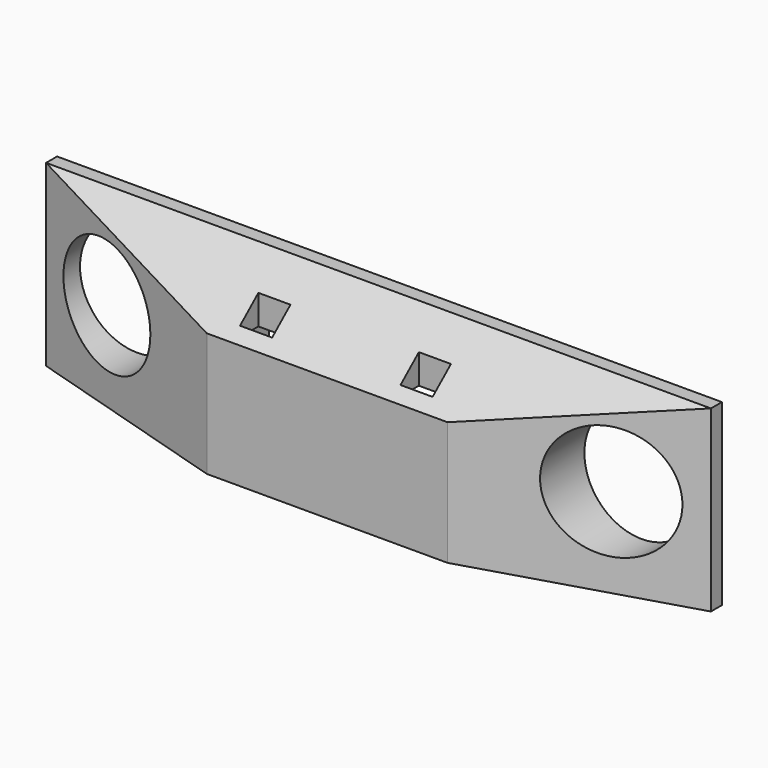
from build123d import *

# Parameters (mm, degrees)
F0_W      = 145
F0_H      = 39
F0_R      = 12.5
F1_DEPTH  = 17
F4_DEPTH  = 300
F6_DEPTH  = 100
F7_W      = 7
F7_H      = 5
F8_DEPTH  = 200
F9_W      = 10.465479
F9_H      = 7.249243
F10_DEPTH = 3
F11_W     = 52.539315
F11_H     = 25.348472
F12_DEPTH = 16


with BuildPart() as f1:
    # F0 (on Front) → F1 (new body)
    with BuildSketch(Plane.XZ):
        Rectangle(F0_W, F0_H)
        with Locations((-55, 0)):
            Circle(F0_R, mode=Mode.SUBTRACT)
        with Locations((55, 0)):
            Circle(F0_R, mode=Mode.SUBTRACT)
    extrude(amount=F1_DEPTH)

    # F3 (on face) → F4 (cut)
    with BuildSketch(Plane(origin=(-72.5, 0, 0), x_dir=(0, -1, 0), z_dir=(-1, 0, 0))):
        Polygon((3, 19.5), (17, 7.5), (17, 19.5), align=None)
    extrude(amount=-F4_DEPTH, mode=Mode.SUBTRACT)

    # F5 (on face) → F6 (cut)
    with BuildSketch(Plane(origin=(0, 0, -19.5), x_dir=(1, 0, 0), z_dir=(0, 0, -1))):
        Polygon((-72.5, 3), (-26.25, 17), (-72.5, 17), align=None)
        Polygon((72.5, 17), (26.25, 17), (72.5, 3), align=None)
    extrude(amount=-F6_DEPTH, mode=Mode.SUBTRACT)

    # F7 (on face) → F8 (cut)
    with BuildSketch(Plane(origin=(0, 0, -19.5), x_dir=(1, 0, 0), z_dir=(0, 0, -1))):
        with Locations((-17.5, 12)):
            Rectangle(F7_W, F7_H)
        with Locations((17.5, 12)):
            Rectangle(F7_W, F7_H)
    extrude(amount=-F8_DEPTH, mode=Mode.SUBTRACT)

    # F9 (on face) → F10 (join)
    with BuildSketch(Plane(origin=(0, 0, -19.5), x_dir=(1, 0, 0), z_dir=(0, 0, -1))):
        with Locations((17.402842, 12.139229)):
            Rectangle(F9_W, F9_H)
    extrude(amount=-F10_DEPTH)

    # F11 (on face) → F12 (cut)
    with BuildSketch(Plane(origin=(0, 0, 0), x_dir=(-1, 0, 0), z_dir=(0, 1, 0))):
        with Locations((-0.041759, -5.197565)):
            Rectangle(F11_W, F11_H)
    extrude(amount=-F12_DEPTH, mode=Mode.SUBTRACT)


solid = f1.part
